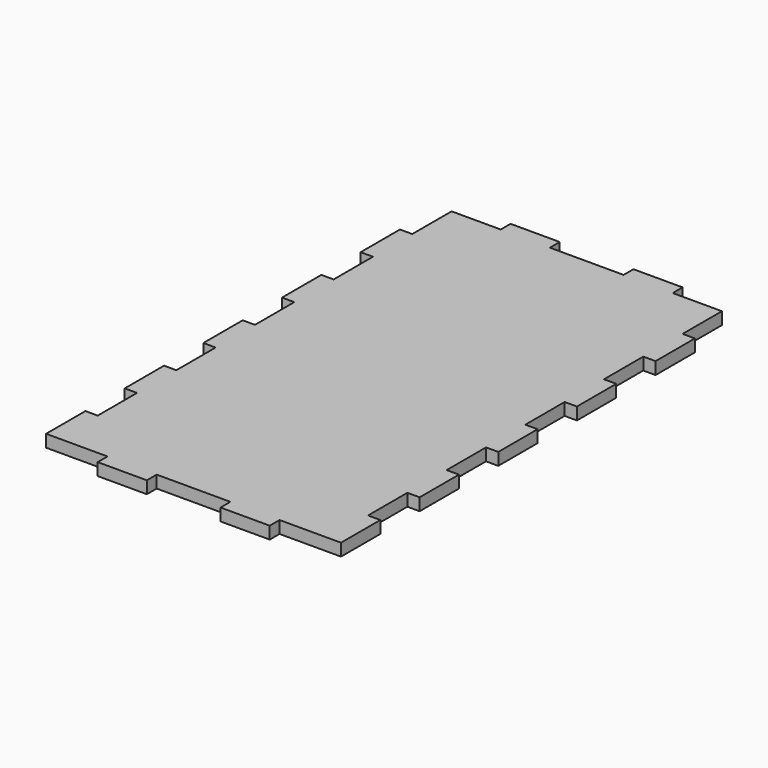
from build123d import *

# Parameters (mm, degrees)
F1_DEPTH = 5


with BuildPart() as f1:
    # F0 (on Top) → F1 (new body)
    with BuildSketch(Plane.XY):
        Polygon((55, 80), (55, 100), (35, 100), (35, 105), (15, 105), (15, 100), (-15, 100), (-15, 105), (-35, 105), (-35, 100), (-55, 100), (-55, 80), (-60, 80), (-60, 60), (-55, 60), (-55, 40), (-60, 40), (-60, 20), (-55, 20), (-55, 0), (-60, 0), (-60, -20), (-55, -20), (-55, -40), (-60, -40), (-60, -60), (-55, -60), (-55, -80), (-60, -80), (-60, -100), (-55, -100), (-35, -100), (-35, -105), (-15, -105), (-15, -100), (15, -100), (15, -105), (35, -105), (35, -100), (55, -100), (60, -100), (60, -80), (55, -80), (55, -60), (60, -60), (60, -40), (55, -40), (55, -20), (60, -20), (60, 0), (55, 0), (55, 20), (60, 20), (60, 40), (55, 40), (55, 60), (60, 60), (60, 80), align=None)
    extrude(amount=F1_DEPTH)


solid = f1.part
